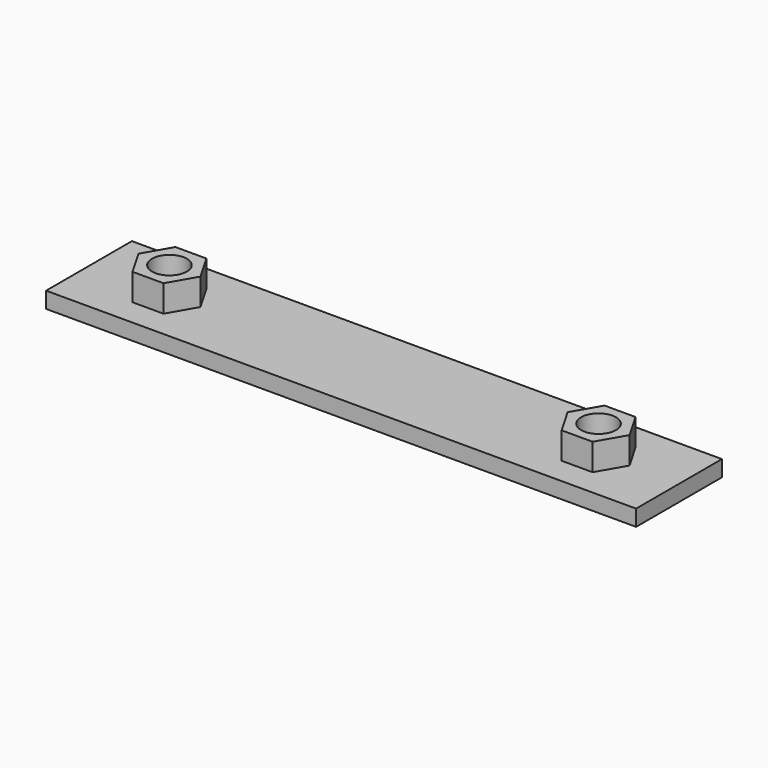
from build123d import *

# Parameters (mm, degrees)
F0_W     = 110
F0_H     = 20
F0_R     = 3
F1_DEPTH = 3
F2_R     = 3.25
F3_DEPTH = 5


with BuildPart() as f1:
    # F0 (on Top) → F1 (new body)
    with BuildSketch(Plane.XY):
        with Locations((55, 10)):
            Rectangle(F0_W, F0_H)
        with Locations((15, 10)):
            Circle(F0_R, mode=Mode.SUBTRACT)
        with Locations((95, 10)):
            Circle(F0_R, mode=Mode.SUBTRACT)
    extrude(amount=F1_DEPTH)

    # F2 (on face) → F3 (join)
    with BuildSketch(Plane.XY.offset(3)):
        Polygon((17.886751, 5), (20.773503, 10), (17.886751, 15), (12.113249, 15), (9.226497, 10), (12.113249, 5), align=None)
        with Locations((15, 10)):
            Circle(F2_R, mode=Mode.SUBTRACT)
        Polygon((97.886751, 5), (100.773503, 10), (97.886751, 15), (92.113249, 15), (89.226497, 10), (92.113249, 5), align=None)
        with Locations((95, 10)):
            Circle(F2_R, mode=Mode.SUBTRACT)
    extrude(amount=F3_DEPTH)


solid = f1.part
